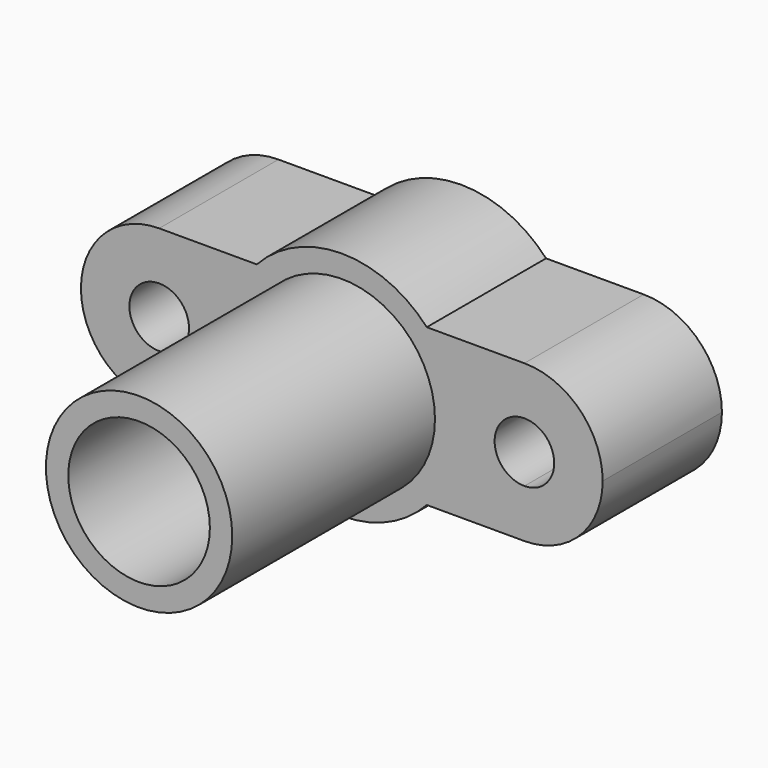
from build123d import *

# Parameters (mm, degrees)
F0_R     = 25
F0_R_2   = 8
F0_R_3   = 19
F1_DEPTH = 40
F2_DEPTH = 108


with BuildPart() as f1:
    # F0 (on Front) → F1 (new body)
    with BuildSketch(Plane.XZ):
        with BuildLine():
            Line((-49, -21), (-22.803508502, -21))
            ThreePointArc((-22.803508502, -21), (0, -31), (22.803508502, -21))
            Line((22.803508502, -21), (49, -21))
            ThreePointArc((49, -21), (28, 0), (49, 21))
            Line((49, 21), (22.803508502, 21))
            ThreePointArc((22.803508502, 21), (0, 31), (-22.803508502, 21))
            Line((-22.803508502, 21), (-49, 21))
            ThreePointArc((-49, 21), (-34.1507575951, 14.8492424049), (-28, 0))
            ThreePointArc((-28, 0), (-34.1507575951, -14.8492424049), (-49, -21))
        make_face()
        Circle(F0_R, mode=Mode.SUBTRACT)
        with BuildLine():
            ThreePointArc((-49, 21), (-70, 0), (-49, -21))
            ThreePointArc((-49, -21), (-34.1507575951, -14.8492424049), (-28, 0))
            ThreePointArc((-28, 0), (-34.1507575951, 14.8492424049), (-49, 21))
        make_face()
        with Locations((-49, 0)):
            Circle(F0_R_2, mode=Mode.SUBTRACT)
        with BuildLine():
            Line((49, -8), (49, -21))
            ThreePointArc((49, -21), (63.8492424049, -14.8492424049), (70, 0))
            ThreePointArc((70, 0), (63.8492424049, 14.8492424049), (49, 21))
            Line((49, 21), (49, 8))
            ThreePointArc((49, 8), (54.6568542495, 5.6568542495), (57, 0))
            ThreePointArc((57, 0), (54.6568542495, -5.6568542495), (49, -8))
        make_face()
        with BuildLine():
            ThreePointArc((49, 21), (28, 0), (49, -21))
            Line((49, -21), (49, -8))
            ThreePointArc((49, -8), (41, 0), (49, 8))
            Line((49, 8), (49, 21))
        make_face()
        Circle(F0_R)
        Circle(F0_R_3, mode=Mode.SUBTRACT)
    extrude(amount=F1_DEPTH)

    # F0 (on Front) → F2 (join)
    with BuildSketch(Plane.XZ):
        Circle(F0_R)
        Circle(F0_R_3, mode=Mode.SUBTRACT)
    extrude(amount=F2_DEPTH)


solid = f1.part
